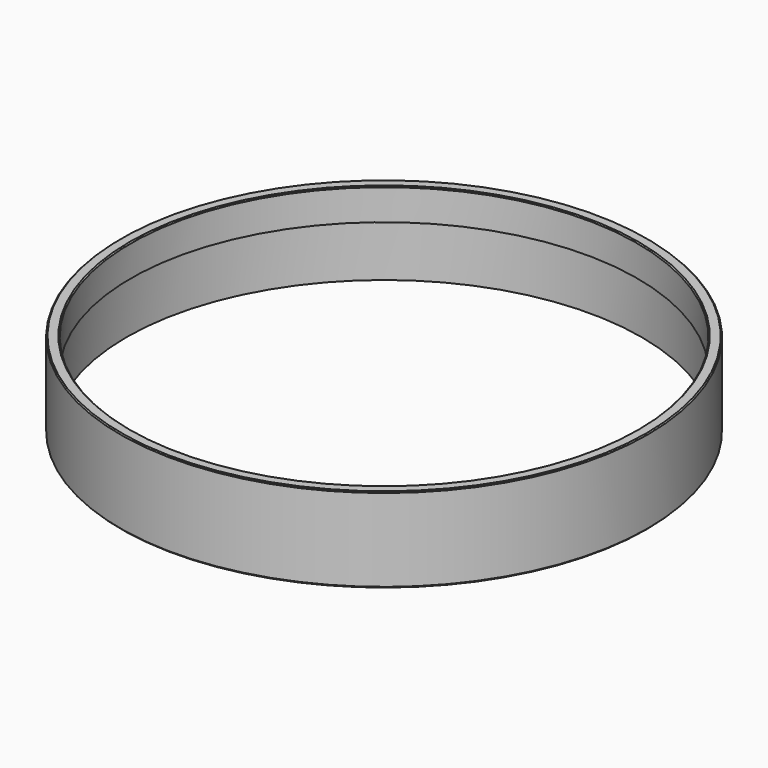
from build123d import *

# Parameters (mm, degrees)
F0_R     = 99.4
F0_R_2   = 97
F1_DEPTH = 20
F2_R     = 99.4
F2_R_2   = 95.4
F3_DEPTH = 12
F4_SIZE  = 0.4
F5_SIZE  = 0.5


with BuildPart() as f1:
    # F0 (on Top) → F1 (new body)
    with BuildSketch(Plane.XY):
        Circle(F0_R)
        Circle(F0_R_2, mode=Mode.SUBTRACT)
    extrude(amount=F1_DEPTH)

    # F2 (on face) → F3 (join)
    with BuildSketch(Plane.XY.offset(20)):
        Circle(F2_R)
        Circle(F2_R_2, mode=Mode.SUBTRACT)
    extrude(amount=F3_DEPTH)

    # F4
    f4_edges = [f1.edges().sort_by_distance(p)[0] for p in [
        (-99.4, 0, 32),
        (-95.4, 0, 32),
    ]]
    chamfer(f4_edges, length=F4_SIZE)

    # F5
    f5_edges = [f1.edges().sort_by_distance(p)[0] for p in [
        (-99.4, 0, 0),
    ]]
    chamfer(f5_edges, length=F5_SIZE)


solid = f1.part
